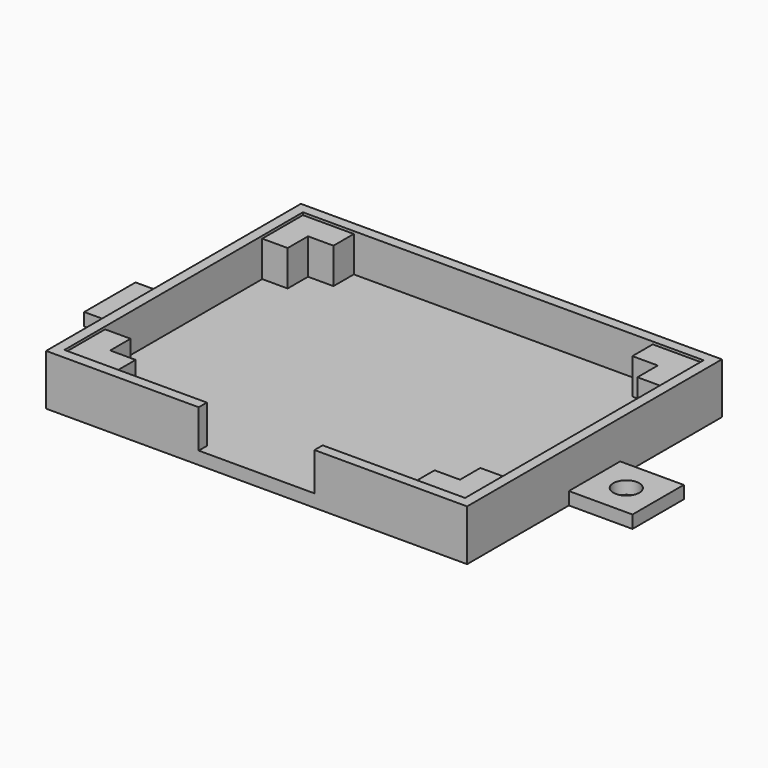
from build123d import *

# Parameters (mm, degrees)
F0_W      = 42.037
F0_H      = 31.8008
F1_DEPTH  = 5.08
F2_W      = 40.005
F2_H      = 29.7688
F3_DEPTH  = 3.81
F4_W      = 2.54
F4_H      = 3.556
F5_DEPTH  = 5.08
F6_W      = 2.54
F6_H      = 3.556
F7_DEPTH  = 2.54
F8_W      = 2.54
F8_H      = 3.556
F9_DEPTH  = 5.08
F10_W     = 2.54
F10_H     = 3.556
F11_DEPTH = 2.54
F12_W     = 2.54
F12_H     = 3.556
F13_DEPTH = 5.08
F14_W     = 2.54
F14_H     = 3.556
F15_DEPTH = 2.54
F16_W     = 2.54
F16_H     = 3.556
F17_DEPTH = 5.08
F18_W     = 2.54
F18_H     = 3.556
F19_DEPTH = 2.54
F20_W     = 11.557
F20_H     = 3.81
F21_DEPTH = 1.016
F22_W     = 6.4008
F22_H     = 1.27
F23_DEPTH = 6.35
F24_W     = 6.4008
F24_H     = 1.27
F25_DEPTH = 6.35
F26_R     = 1.29794
F27_DEPTH = 1.271
F28_R     = 1.29794
F29_DEPTH = 1.27


with BuildPart() as f1:
    # F0 (on Top) → F1 (new body)
    with BuildSketch(Plane.XY):
        Rectangle(F0_W, F0_H)
    extrude(amount=F1_DEPTH)

    # F2 (on face) → F3 (cut)
    with BuildSketch(Plane.XY.offset(5.08)):
        Rectangle(F2_W, F2_H)
    extrude(amount=-F3_DEPTH, mode=Mode.SUBTRACT)

    # F4 (on face) → F5 (join)
    with BuildSketch(Plane(origin=(0, -14.8844, 0), x_dir=(-1, 0, 0), z_dir=(0, 1, 0))):
        with Locations((-18.7325, 3.048)):
            Rectangle(F4_W, F4_H)
    extrude(amount=F5_DEPTH)

    # F6 (on face) → F7 (join)
    with BuildSketch(Plane.YZ.offset(-17.4625)):
        with Locations((13.6144, 3.048)):
            Rectangle(F6_W, F6_H)
    extrude(amount=F7_DEPTH)

    # F8 (on face) → F9 (join)
    with BuildSketch(Plane.YZ.offset(-20.0025)):
        with Locations((-13.6144, 3.048)):
            Rectangle(F8_W, F8_H)
    extrude(amount=F9_DEPTH)

    # F10 (on face) → F11 (join)
    with BuildSketch(Plane.XZ.offset(-12.3444)):
        with Locations((18.7325, 3.048)):
            Rectangle(F10_W, F10_H)
    extrude(amount=F11_DEPTH)

    # F12 (on face) → F13 (join)
    with BuildSketch(Plane.XZ.offset(-14.8844)):
        with Locations((-18.7325, 3.048)):
            Rectangle(F12_W, F12_H)
    extrude(amount=F13_DEPTH)

    # F14 (on face) → F15 (join)
    with BuildSketch(Plane(origin=(17.4625, 0, 0), x_dir=(0, -1, 0), z_dir=(-1, 0, 0))):
        with Locations((13.6144, 3.048)):
            Rectangle(F14_W, F14_H)
    extrude(amount=F15_DEPTH)

    # F16 (on face) → F17 (join)
    with BuildSketch(Plane(origin=(20.0025, 0, 0), x_dir=(0, -1, 0), z_dir=(-1, 0, 0))):
        with Locations((-13.6144, 3.048)):
            Rectangle(F16_W, F16_H)
    extrude(amount=F17_DEPTH)

    # F18 (on face) → F19 (join)
    with BuildSketch(Plane(origin=(0, -12.3444, 0), x_dir=(-1, 0, 0), z_dir=(0, 1, 0))):
        with Locations((18.7325, 3.048)):
            Rectangle(F18_W, F18_H)
    extrude(amount=F19_DEPTH)

    # F20 (on face) → F21 (cut, through all)
    with BuildSketch(Plane.XZ.offset(15.9004)):
        with Locations((0, 3.175)):
            Rectangle(F20_W, F20_H)
    extrude(amount=-F21_DEPTH, mode=Mode.SUBTRACT)

    # F22 (on face) → F23 (join)
    with BuildSketch(Plane.YZ.offset(21.0185)):
        with Locations((0, 0.635)):
            Rectangle(F22_W, F22_H)
    extrude(amount=F23_DEPTH)

    # F24 (on face) → F25 (join)
    with BuildSketch(Plane(origin=(-21.0185, 0, 0), x_dir=(0, -1, 0), z_dir=(-1, 0, 0))):
        with Locations((0, 0.635)):
            Rectangle(F24_W, F24_H)
    extrude(amount=F25_DEPTH)

    # F26 (on face) → F27 (cut, through all)
    with BuildSketch(Plane.XY.offset(1.27)):
        with Locations((24.1935, 0)):
            Circle(F26_R)
    extrude(amount=-F27_DEPTH, mode=Mode.SUBTRACT)

    # F28 (on face) → F29 (cut, through all)
    with BuildSketch(Plane.XY.offset(1.27)):
        with Locations((-24.1935, 0)):
            Circle(F28_R)
    extrude(amount=-F29_DEPTH, mode=Mode.SUBTRACT)


solid = f1.part
